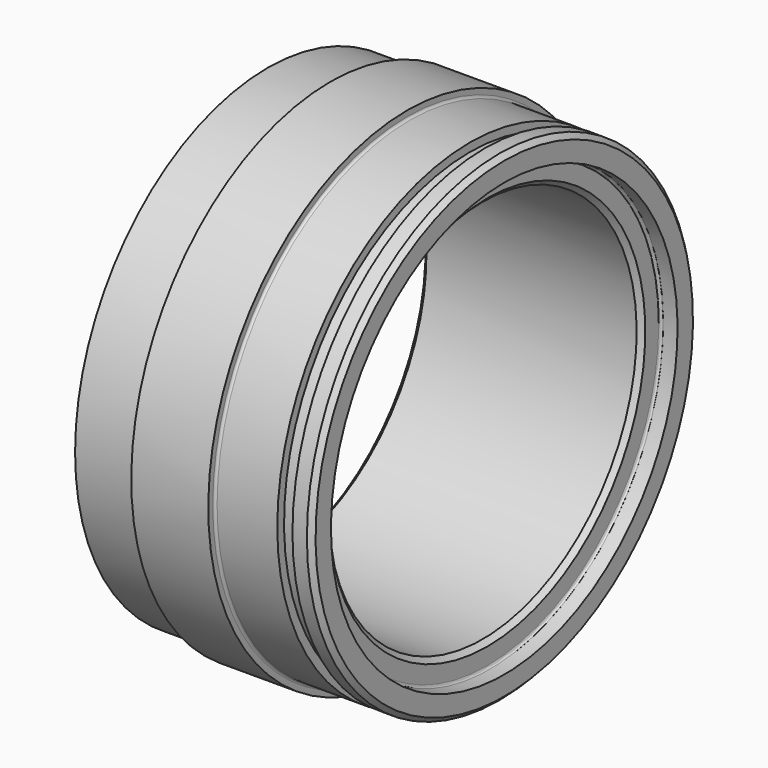
from build123d import *

# Parameters (mm, degrees)
F4_D     = 3.3
F4_DEPTH = 18.925
F4_TIP   = 0.9914200214
F5_SIZE  = 1


with BuildPart() as f1:
    # F0 (on Front) → F1 (revolve)
    with BuildSketch(Plane.XZ):
        with BuildLine():
            Line((-17.5953409282, 5.5167464038), (-30.0953409282, 5.5167464038))
            Line((-30.0953409282, 5.5167464038), (-30.0953409282, -4.4832535962))
            Line((-30.0953409282, -4.4832535962), (15.5546590718, -4.4832535962))
            Line((15.5546590718, -4.4832535962), (15.5546590718, 0.0167464038))
            ThreePointArc((15.5546590718, 0.0167464038), (15.7011056812, 0.3702997944), (16.0546590718, 0.5167464038))
            Line((16.0546590718, 0.5167464038), (19.0546590718, 0.5167464038))
            Line((19.0546590718, 0.5167464038), (19.0546590718, 5.5167464038))
            Line((19.0546590718, 5.5167464038), (15.0546590718, 5.5167464038))
            Line((15.0546590718, 5.5167464038), (15.0546590718, 3.7667464038))
            Line((15.0546590718, 3.7667464038), (11.9046590718, 3.7667464038))
            Line((11.9046590718, 3.7667464038), (11.9046590718, 5.5167464038))
            Line((11.9046590718, 5.5167464038), (-0.5953409282, 5.5167464038))
            ThreePointArc((-0.5953409282, 5.5167464038), (-0.9488943188, 5.6631930132), (-1.0953409282, 6.0167464038))
            Line((-1.0953409282, 6.0167464038), (-1.0953409282, 7.1772464038))
            Line((-1.0953409282, 7.1772464038), (-17.0953409282, 7.1772464038))
            Line((-17.0953409282, 7.1772464038), (-17.0953409282, 6.0167464038))
            ThreePointArc((-17.0953409282, 6.0167464038), (-17.2417875376, 5.6631930132), (-17.5953409282, 5.5167464038))
        make_face()
    revolve(axis=Axis((13.2239913882, 0, -44.4832535962), (1, 0, 0)))


with BuildPart() as f1_1:
    # F2: moved
    add(f1.part.moved(Location((0, 0, 44.563))))

    # F4
    with Locations(Plane(origin=(-30.0953409282, 0, 0), x_dir=(0, -1, 0), z_dir=(-1, 0, 0))):
        with Locations((0, 46), (23, 39.8371685741), (39.8371685741, 23), (46, 0), (39.8371685741, -23), (23, -39.8371685741), (0, -46), (-23, -39.8371685741), (-39.8371685741, -23), (-46, 0), (-39.8371685741, 23), (-23, 39.8371685741)):
            Hole(F4_D / 2, depth=F4_DEPTH)
            with Locations((0, 0, -(F4_DEPTH + F4_TIP / 2))):  # 118° drill point
                Cone(0, F4_D / 2, F4_TIP, mode=Mode.SUBTRACT)

    # F5
    f5_edges = [f1_1.edges().sort_by_distance(p)[0] for p in [
        (-30.095341, 0, -39.920254),
        (15.554659, 0, -39.920254),
        (-7.270341, 0, 40.079746),
        (19.054659, 0, -49.920254),
    ]]
    chamfer(f5_edges, length=F5_SIZE)


solid = f1_1.part
